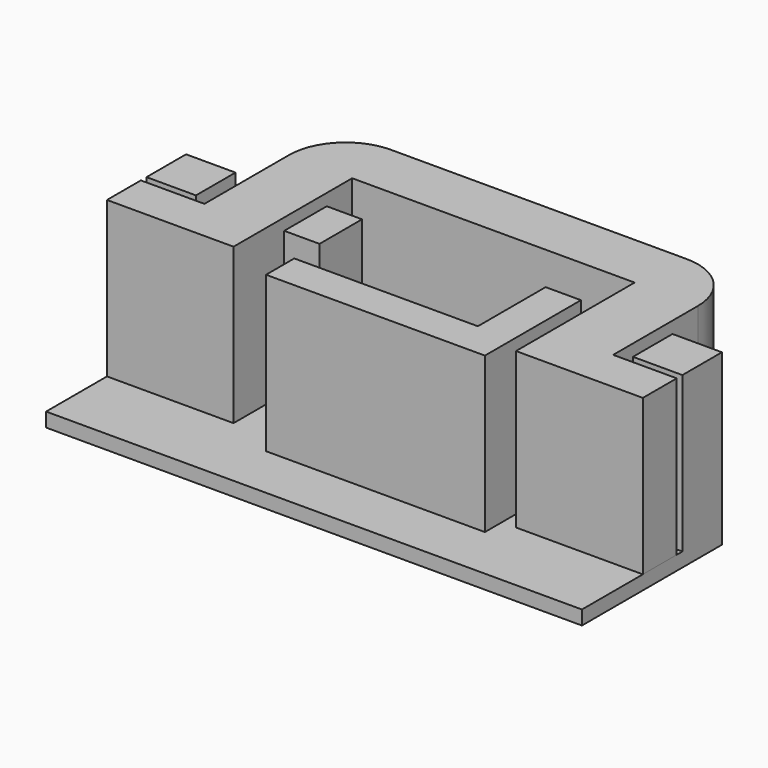
from build123d import *

# Parameters (mm, degrees)
F1_DEPTH = 0.5
F0_W     = 1.25
F0_H     = 1.882829
F2_DEPTH = 6
F3_W     = 6.241226
F3_H     = 6.194862
F4_DEPTH = 0.5
F5_W     = 1.75
F5_H     = 1.75
F6_DEPTH = 5.5
F8_DEPTH = 5.5
F9_R     = 2
F10_R    = 2


with BuildPart() as f1:
    # F0 (on Top) → F1 (new body)
    with BuildSketch(Plane.XY):
        Polygon((-35.440375, 27.931707), (-41.940375, 27.931707), (-41.940375, 26.048878), (-41.940375, 24.931707), (-35.440375, 24.931707), align=None)
    extrude(amount=F1_DEPTH)

    # F0 (on Top) → F2 (join)
    with BuildSketch(Plane.XY):
        Polygon((-34.190375, 27.931707), (-35.440375, 27.931707), (-35.440375, 24.931707), (-41.940375, 24.931707), (-41.940375, 23.681707), (-34.190375, 23.681707), align=None)
        with Locations((-42.565375, 26.990292)):
            Rectangle(F0_W, F0_H)
    extrude(amount=F2_DEPTH)

    # F3 (on Top) → F4 (join, through all)
    with BuildSketch(Plane.XY):
        Polygon((-35.440375, 27.931707), (-41.940375, 27.931707), (-48.171132, 27.931707), (-48.171132, 21.736845), (-35.440375, 21.736845), align=None)
        with Locations((-32.319762, 24.834276)):
            Rectangle(F3_W, F3_H)
    extrude(amount=F4_DEPTH)

    # F5 (on face) → F6 (join, through all)
    with BuildSketch(Plane.XY.offset(0.5)):
        with Locations((-47.296132, 27.056707)):
            Rectangle(F5_W, F5_H)
        with Locations((-30.074149, 27.056707)):
            Rectangle(F5_W, F5_H)
    extrude(amount=F6_DEPTH)


with BuildPart() as f8:
    # F7 (on face) → F8 (new body, through all)
    with BuildSketch(Plane.XY.offset(0.5)):
        Polygon((-45.921132, 31.681707), (-45.921132, 27.931707), (-43.690375, 27.931707), (-43.690375, 29.681707), (-33.690375, 29.681707), (-33.690375, 27.931707), (-31.449149, 27.931707), (-31.449149, 31.681707), align=None)
        Polygon((-45.921132, 25.931707), (-48.171132, 25.931707), (-48.171132, 24.431707), (-43.690375, 24.431707), (-43.690375, 27.931707), (-45.921132, 27.931707), align=None)
        Polygon((-33.690375, 24.431707), (-29.199149, 24.431707), (-29.199149, 25.931707), (-31.449149, 25.931707), (-31.449149, 27.931707), (-33.690375, 27.931707), align=None)
    extrude(amount=F8_DEPTH)

    # F9
    f9_edges = [f8.edges().sort_by_distance(p)[0] for p in [
        (-45.921132, 31.681707, 3.25),
    ]]
    fillet(f9_edges, radius=F9_R)

    # F10
    f10_edges = [f8.edges().sort_by_distance(p)[0] for p in [
        (-31.449149, 31.681707, 3.25),
    ]]
    fillet(f10_edges, radius=F10_R)


solid = Compound([f1.part, f8.part])
